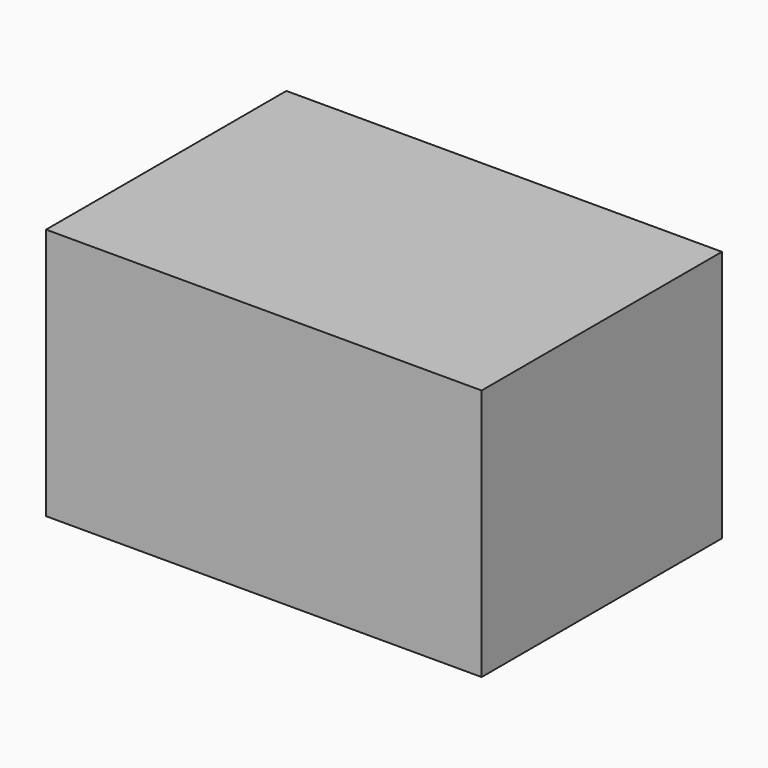
from build123d import *

# Parameters (mm, degrees)
F0_W     = 27.8428420424
F0_H     = 24.9590985477
F1_DEPTH = 145
F2_DEPTH = 145
F3_DEPTH = 84
F4_DEPTH = 45


with BuildPart() as f1:
    # F0 (on Front) → F1 (new body)
    with BuildSketch(Plane.XZ):
        with Locations((13.9214210212, 12.4795492738)):
            Rectangle(F0_W, F0_H)
    extrude(amount=F1_DEPTH)

    # F2 (add): a face of the model
    f2_faces = [f1.faces().sort_by_distance(p)[0] for p in [
        (0, -72.5, 12.4795492738),
    ]]
    extrude(f2_faces, amount=-F2_DEPTH)

    # F3 (add): a face of the model
    f3_faces = [f1.faces().sort_by_distance(p)[0] for p in [
        (72.5, -72.5, 0),
    ]]
    extrude(f3_faces, amount=-F3_DEPTH)

    # F4 (cut): a face of the model
    f4_faces = [f1.faces().sort_by_distance(p)[0] for p in [
        (72.5, -145, 42),
    ]]
    extrude(f4_faces, amount=-F4_DEPTH, mode=Mode.SUBTRACT)


solid = f1.part
